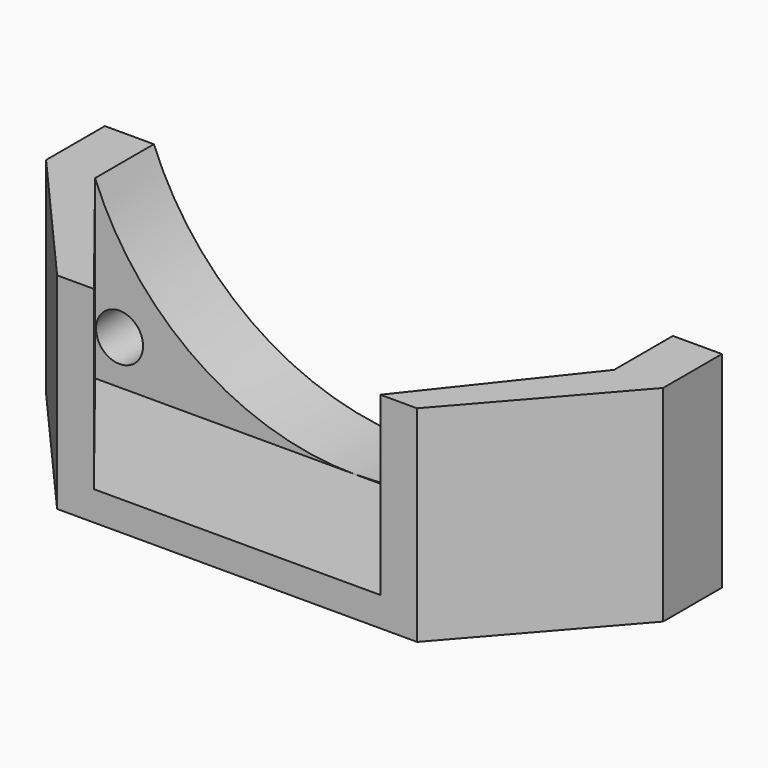
from build123d import *

# Parameters (mm, degrees)
PAD_DEPTH       = 14
SKETCH001_R     = 19
POCKET_DEPTH    = 5
POCKET001_DEPTH = 12
SKETCH003_R     = 1.6
POCKET002_DEPTH = 5
SKETCH004_W     = 42
SKETCH004_H     = 8
POCKET003_DEPTH = 14


with BuildPart() as part:
    # Sketch → Pad (new body)
    with BuildSketch(Plane(origin=(0, 0, 0), x_dir=(1, 0, 0), z_dir=(0, 0, -1))):
        Polygon((-50.823539, 3.584357), (-8.823539, 3.584357), (-8.823539, 8.584357), (-22.823539, 24.584357), (-36.823539, 24.584357), (-50.823539, 8.584357), align=None)
    extrude(amount=PAD_DEPTH)

    # Sketch001 → Pocket (cut)
    with BuildSketch(Plane(origin=(0, -3.584357, 0), x_dir=(1, 0, 0), z_dir=(0, 1, 0))):
        with Locations((-29.823539, -7)):
            Circle(SKETCH001_R)
    extrude(amount=-POCKET_DEPTH, mode=Mode.SUBTRACT)

    # Sketch002 → Pocket001 (cut)
    with BuildSketch(Plane.XY):
        Polygon((-47.487061, -8.584357), (-34.823539, -24.584357), (-24.823539, -24.584357), (-12.160017, -8.584357), align=None)
    extrude(amount=-POCKET001_DEPTH, mode=Mode.SUBTRACT)

    # Sketch003 → Pocket002 (cut)
    with BuildSketch(Plane(origin=(0, -3.584357, 0), x_dir=(1, 0, 0), z_dir=(0, 1, 0))):
        with Locations((-45.823539, 9)):
            Circle(SKETCH003_R)
        with Locations((-13.823539, 9)):
            Circle(SKETCH003_R)
    extrude(amount=-POCKET002_DEPTH, mode=Mode.SUBTRACT)

    # Sketch004 → Pocket003 (cut)
    with BuildSketch(Plane(origin=(0, 0, -14), x_dir=(1, 0, 0), z_dir=(0, 0, -1))):
        with Locations((-29.823539, 22.584357)):
            Rectangle(SKETCH004_W, SKETCH004_H)
    extrude(amount=-POCKET003_DEPTH, mode=Mode.SUBTRACT)


solid = part.part
